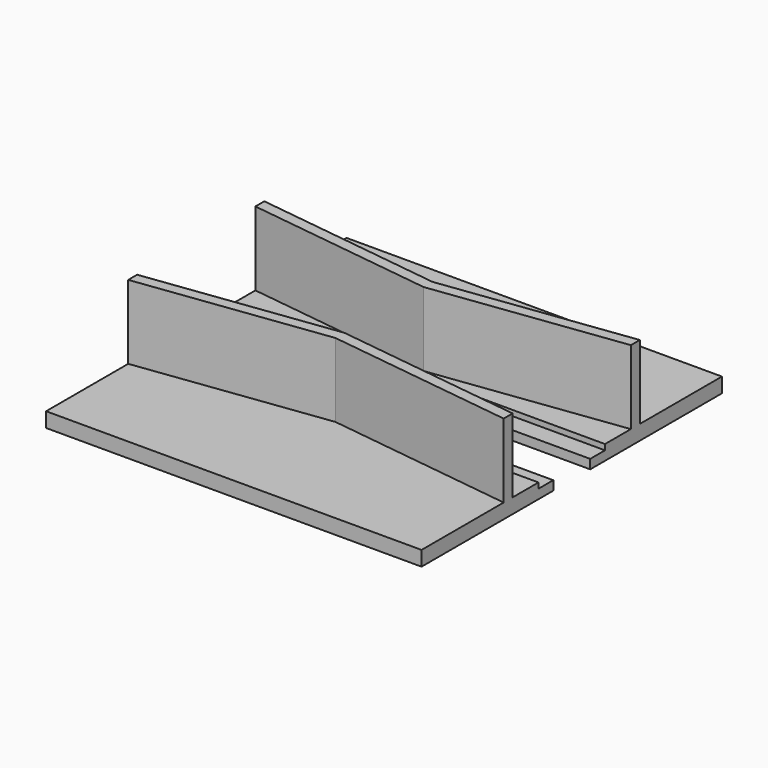
from build123d import *

# Parameters (mm, degrees)
F0_W     = 101.6
F0_H     = 101.6
F1_DEPTH = 4
F3_DEPTH = 1.5
F5_DEPTH = 25.4
F7_DEPTH = 20


with BuildPart() as f1:
    # F0 (on Top) → F1 (new body)
    with BuildSketch(Plane.XY):
        Rectangle(F0_W, F0_H)
    extrude(amount=F1_DEPTH)

    # F2 (on face) → F3 (cut)
    with BuildSketch(Plane.XY.offset(4)):
        with BuildLine():
            Line((15.875, -11.25), (50.8, -11.25))
            Line((50.8, -11.25), (50.8, 11.25))
            Line((50.8, 11.25), (15.875, 11.25))
            ThreePointArc((15.875, 11.25), (4.625, 0), (15.875, -11.25))
        make_face()
        with BuildLine():
            Line((-50.8, -11.25), (-15.875, -11.25))
            ThreePointArc((-15.875, -11.25), (-4.625, 0), (-15.875, 11.25))
            Line((-15.875, 11.25), (-50.8, 11.25))
            Line((-50.8, 11.25), (-50.8, -11.25))
        make_face()
    extrude(amount=-F3_DEPTH, mode=Mode.SUBTRACT)

    # F4 (on face) → F5 (cut)
    with BuildSketch(Plane.XY.offset(2.5)):
        with BuildLine():
            ThreePointArc((-15.875, -6.25), (-9.625, 0), (-15.875, 6.25))
            Line((-15.875, 6.25), (-50.8, 6.25))
            Line((-50.8, 6.25), (-50.8, -6.25))
            Line((-50.8, -6.25), (-15.875, -6.25))
        make_face()
        with BuildLine():
            ThreePointArc((15.875, 6.25), (9.625, 0), (15.875, -6.25))
            Line((15.875, -6.25), (50.8, -6.25))
            Line((50.8, -6.25), (50.8, 6.25))
            Line((50.8, 6.25), (15.875, 6.25))
        make_face()
    extrude(amount=-F5_DEPTH, mode=Mode.SUBTRACT)

    # F6 (on face) → F7 (join)
    with BuildSketch(Plane.XY.offset(4)):
        Polygon((0, -13.405257), (-50.8, -20), (-50.8, -23.025173), (0, -16.430431), (50.8, -23.025173), (50.8, -20), align=None)
        Polygon((-50.8, 23.025173), (-50.8, 20), (0, 13.405257), (50.8, 20), (50.8, 23.025173), (0, 16.430431), align=None)
    extrude(amount=F7_DEPTH)


solid = f1.part
